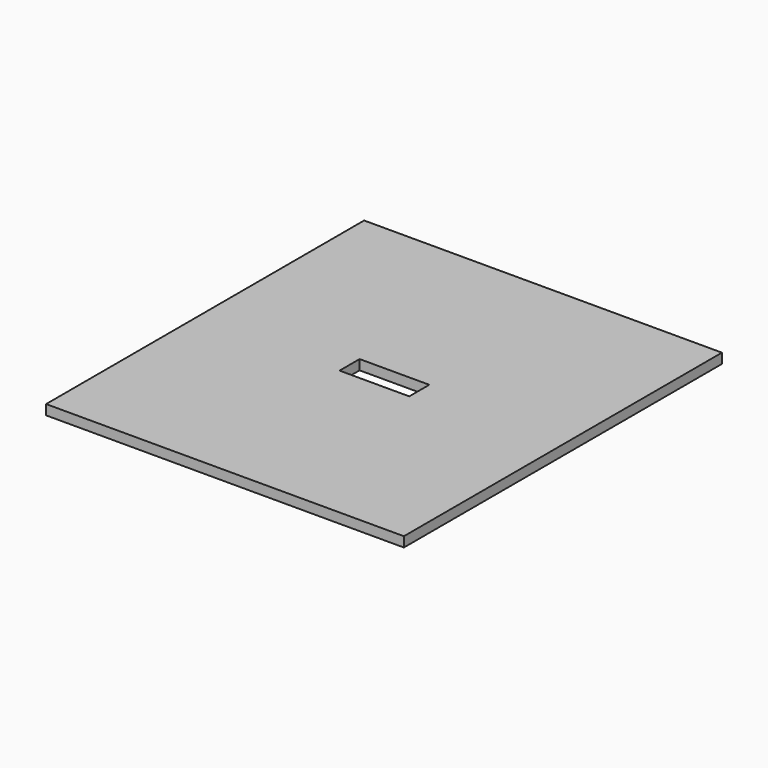
from build123d import *

# Parameters (mm, degrees)
F0_W     = 114.3
F0_H     = 127
F0_W_2   = 22.26
F0_H_2   = 8
F1_DEPTH = 3.18


with BuildPart() as f1:
    # F0 (on Top) → F1 (new body)
    with BuildSketch(Plane.XY):
        with Locations((0.133812, -0.337765)):
            Rectangle(F0_W, F0_H)
        Rectangle(F0_W_2, F0_H_2, mode=Mode.SUBTRACT)
    extrude(amount=F1_DEPTH)


solid = f1.part
